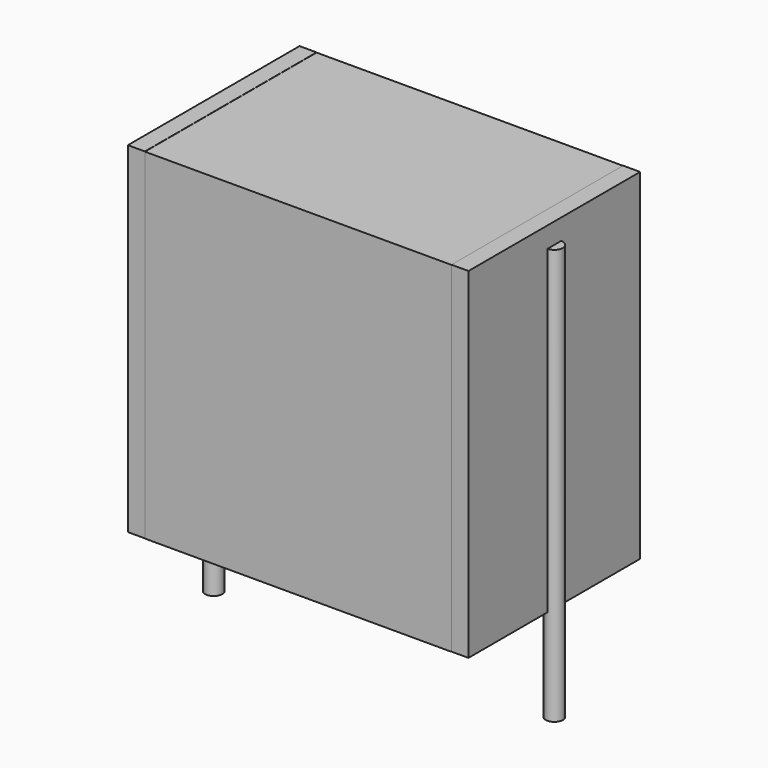
from build123d import *

# Parameters (mm, degrees)
SKETCH_W          = 9
SKETCH_H          = 6.3
PAD_DEPTH         = 10
SKETCH001_R       = 0.25
PAD001_DEPTH      = 9
PAD001_DEPTH_BACK = 3.2
SKETCH002_W       = 0.5
SKETCH002_H       = 6.3
PAD002_DEPTH      = 10


with BuildPart() as pad:
    # Sketch → Pad (new body)
    with BuildSketch(Plane.XY.offset(0.1)):
        with Locations((5, 0)):
            Rectangle(SKETCH_W, SKETCH_H)
    extrude(amount=PAD_DEPTH)


with BuildPart() as pad001:
    # Sketch001 → Pad001 (new body, two sides)
    with BuildSketch(Plane.XY.offset(0.5)) as pad001_sk:
        Circle(SKETCH001_R)
        with Locations((10, 0)):
            Circle(SKETCH001_R)
    extrude(amount=PAD001_DEPTH)
    extrude(pad001_sk.sketch, amount=-PAD001_DEPTH_BACK)


with BuildPart() as pad002:
    # Sketch002 → Pad002 (new body)
    with BuildSketch(Plane.XY.offset(0.105)):
        with Locations((0.25, 0)):
            Rectangle(SKETCH002_W, SKETCH002_H)
        with Locations((9.75, 0)):
            Rectangle(SKETCH002_W, SKETCH002_H)
    extrude(amount=PAD002_DEPTH)


solid = Compound([pad.part, pad001.part, pad002.part])
